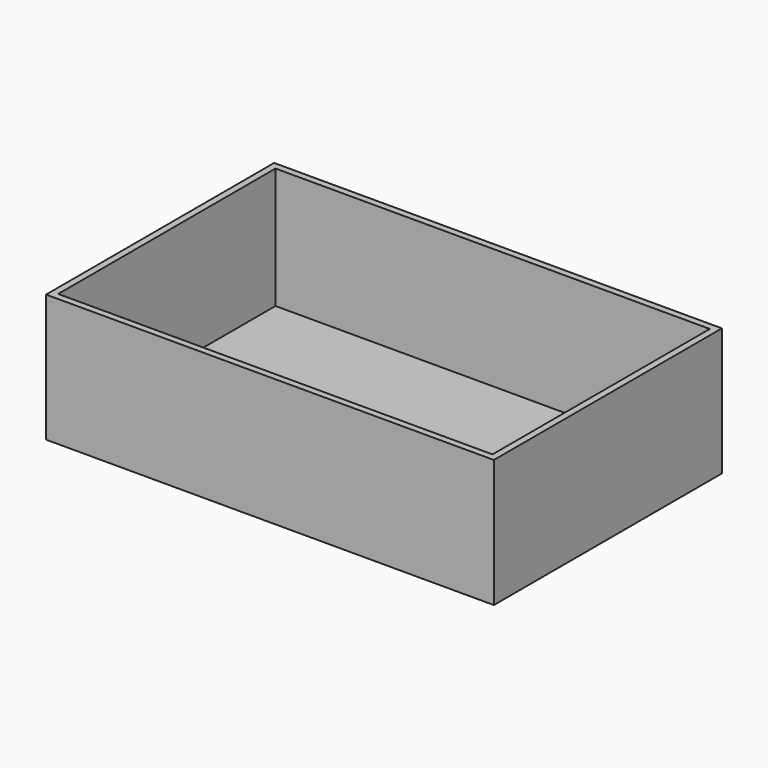
from build123d import *

# Parameters (mm, degrees)
F0_W     = 66.6
F0_H     = 42.4
F1_DEPTH = 19
F2_T     = -1
F3_R     = 1.5
F4_DEPTH = 25
F5_R     = 1.5
F6_DEPTH = 25


with BuildPart() as f1:
    # F0 (on Top) → F1 (new body)
    with BuildSketch(Plane.XY):
        with Locations((9.69916, -9.049298)):
            Rectangle(F0_W, F0_H)
    extrude(amount=F1_DEPTH)

    # F2
    f2_openings = [f1.faces().sort_by_distance(p)[0] for p in [
        (9.69916, -9.049298, 19),
    ]]
    offset(amount=F2_T, openings=f2_openings)

    # F3 (on face) → F4 (cut)
    with BuildSketch(Plane(origin=(0, 0, 0), x_dir=(1, 0, 0), z_dir=(0, 0, -1))):
        with Locations((-11.35084, 25.999298)):
            Circle(F3_R)
    extrude(amount=-F4_DEPTH, mode=Mode.SUBTRACT)

    # F5 (on face) → F6 (cut)
    with BuildSketch(Plane(origin=(0, 0, 0), x_dir=(1, 0, 0), z_dir=(0, 0, -1))):
        with Locations((38.75916, -7.910702)):
            Circle(F5_R)
    extrude(amount=-F6_DEPTH, mode=Mode.SUBTRACT)


solid = f1.part
